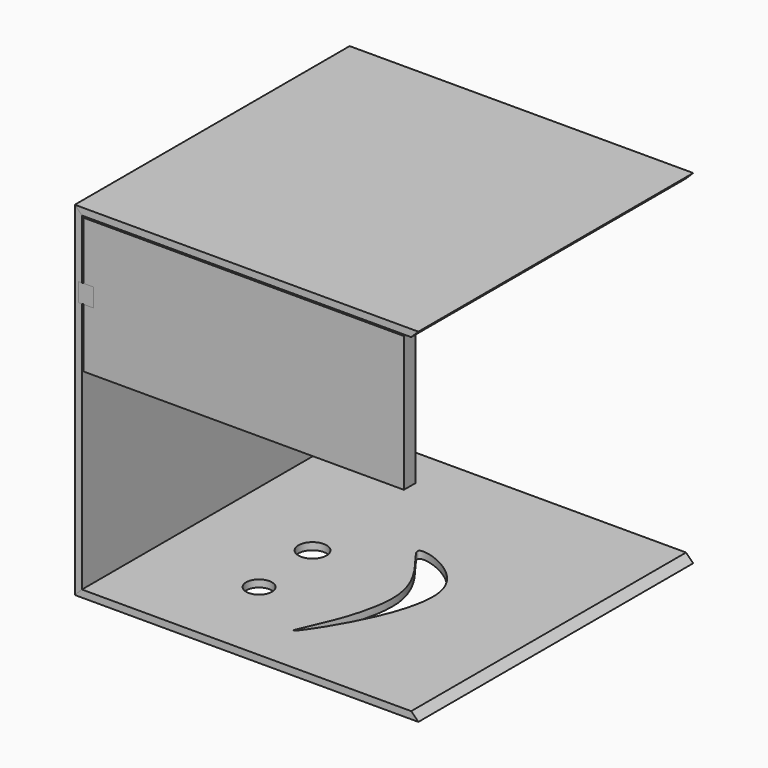
from build123d import *

# Parameters (mm, degrees)
F1_DEPTH = 609.6
F2_DEPTH = 609.6
F3_DEPTH = 609.6
F0_W     = 17.8825953579
F0_H     = 32.8156352043
F4_DEPTH = 25.4
F0_W_2   = 5.7137433529
F0_W_3   = 2.54
F5_DEPTH = 508
F6_R     = 22.8809761475
F6_R_2   = 24.8609236325
F7_DEPTH = 304.801


with BuildPart() as f1:
    # F0 (on Front) → F1 (new body)
    with BuildSketch(Plane.XZ):
        Polygon((292.1, 292.1), (304.8, 304.8), (-304.8, 304.8), (-292.1, 292.1), align=None)
    extrude(amount=-F1_DEPTH)


with BuildPart() as f2:
    # F0 (on Front) → F2 (new body, through all)
    with BuildSketch(Plane.XZ):
        Polygon((-292.1, 292.1), (-304.8, 304.8), (-304.8, -304.8), (-292.1, -292.1), (-292.1, 154.2495638132), (-297.8137433529, 154.2495638132), (-297.8137433529, 187.0651990175), (-292.1, 187.0651990175), align=None)
    extrude(amount=-F2_DEPTH)


with BuildPart() as f3:
    # F0 (on Front) → F3 (new body, through all)
    with BuildSketch(Plane.XZ):
        Polygon((-304.8, -304.8), (304.8, -304.8), (292.1, -292.1), (-292.1, -292.1), align=None)
    extrude(amount=-F3_DEPTH)

    # F6 (on Top) → F7 (cut, through all)
    with BuildSketch(Plane.XY):
        with Locations((-105.1653400064, 159.0962707996)):
            Circle(F6_R)
        with Locations((-115.9515306354, 291.2271022797)):
            Circle(F6_R_2)
        with BuildLine():
            add(Edge.make_bspline(
                [(13.4827364236, 86.2895324826), (21.1217764845, 89.0152422214), (188.3448735841, 332.3768305615), (-67.9878855252, 416.7740783563), (122.4141617398, 277.7495301707), (6.7657569122, 83.8928260479), (13.4827364236, 86.2895324826)],
                knots=[0, 0, 0, 0, 0.2998109809, 0.5142142667, 0.7363773197, 1, 1, 1, 1], degree=3))
        make_face()
    extrude(amount=-F7_DEPTH, mode=Mode.SUBTRACT)


with BuildPart() as f4:
    # F0 (on Front) → F4 (new body)
    with BuildSketch(Plane.XZ):
        Polygon((-289.56, 289.56), (-289.56, 187.0651990175), (-271.6774046421, 187.0651990175), (-271.6774046421, 154.2495638132), (-289.56, 154.2495638132), (-289.56, 49.3894317722), (279.1295847321, 49.3894317722), (279.1295847321, 289.56), align=None)
        with Locations((-280.6187023211, 170.6573814154)):
            Rectangle(F0_W, F0_H)
    extrude(amount=-F4_DEPTH)


with BuildPart() as f5:
    # F0 (on Front) → F5 (new body)
    with BuildSketch(Plane.XZ):
        with Locations((-280.6187023211, 170.6573814154)):
            Rectangle(F0_W, F0_H)
        with Locations((-294.9568716764, 170.6573814154)):
            Rectangle(F0_W_2, F0_H)
        with Locations((-290.83, 170.6573814154)):
            Rectangle(F0_W_3, F0_H)
    extrude(amount=-F5_DEPTH)


solid = Compound([f1.part, f2.part, f3.part, f4.part, f5.part])
